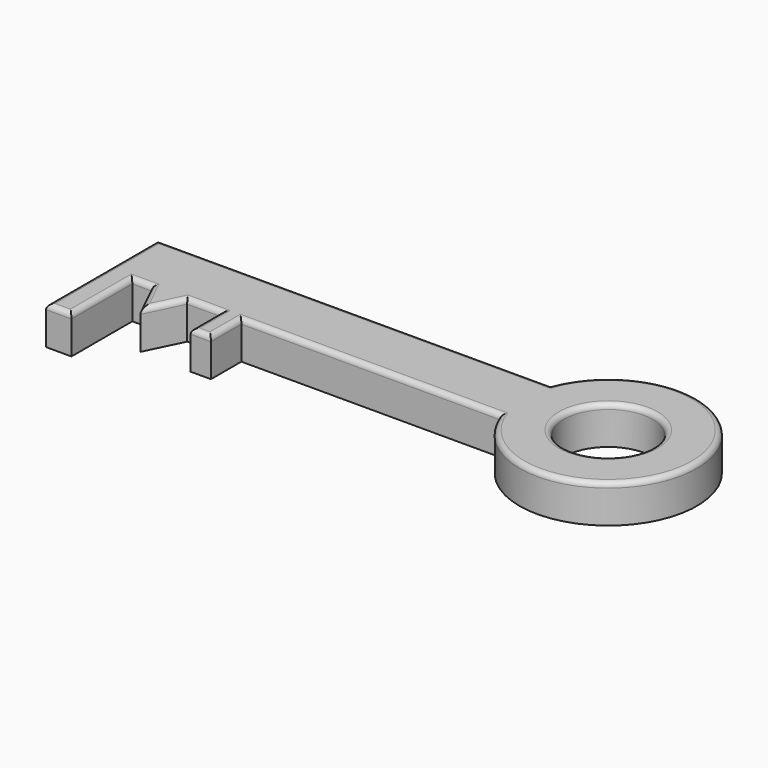
from build123d import *

# Parameters (mm, degrees)
F0_R     = 17.5
F1_DEPTH = 15
F2_R     = 2


with BuildPart() as f1:
    # F0 (on Top) → F1 (new body)
    with BuildSketch(Plane.XY):
        with BuildLine():
            Line((78.938091, 17.894301), (-76.061909, 17.894301))
            Line((-76.061909, 17.894301), (-76.061909, -7.105699))
            Line((-76.061909, -7.105699), (-76.061909, -37.105699))
            Line((-76.061909, -37.105699), (-66.061909, -37.105699))
            Line((-66.061909, -37.105699), (-66.061909, -7.105699))
            Line((-66.061909, -7.105699), (-58.411911, -7.105699))
            Line((-58.411911, -7.105699), (-51.411911, -21.471429))
            Line((-51.411911, -21.471429), (-44.411911, -7.105699))
            Line((-44.411911, -7.105699), (-31.055583, -7.105699))
            Line((-31.055583, -7.105699), (-31.055583, -22.105699))
            Line((-31.055583, -22.105699), (-23.055583, -22.105699))
            Line((-23.055583, -22.105699), (-23.055583, -7.105699))
            Line((-23.055583, -7.105699), (78.938091, -7.105699))
            ThreePointArc((78.938091, -7.105699), (146.629833, 5.394301), (78.938091, 17.894301))
        make_face()
        with Locations((111.629833, 5.394301)):
            Circle(F0_R, mode=Mode.SUBTRACT)
    extrude(amount=F1_DEPTH)

    # F2
    f2_edges = [f1.edges().sort_by_distance(p)[0] for p in [
        (1.438091, 17.894301, 15),
        (-76.061909, -9.605699, 15),
        (-71.061909, -37.105699, 15),
        (-66.061909, -22.105699, 15),
        (-62.23691, -7.105699, 15),
        (-54.911911, -14.288564, 15),
        (-47.911911, -14.288564, 15),
        (-37.733747, -7.105699, 15),
        (-31.055583, -14.605699, 15),
        (-27.055583, -22.105699, 15),
        (-23.055583, -14.605699, 15),
        (27.941254, -7.105699, 15),
        (146.629833, 5.394301, 15),
        (94.129833, 5.394301, 15),
    ]]
    fillet(f2_edges, radius=F2_R)


solid = f1.part
